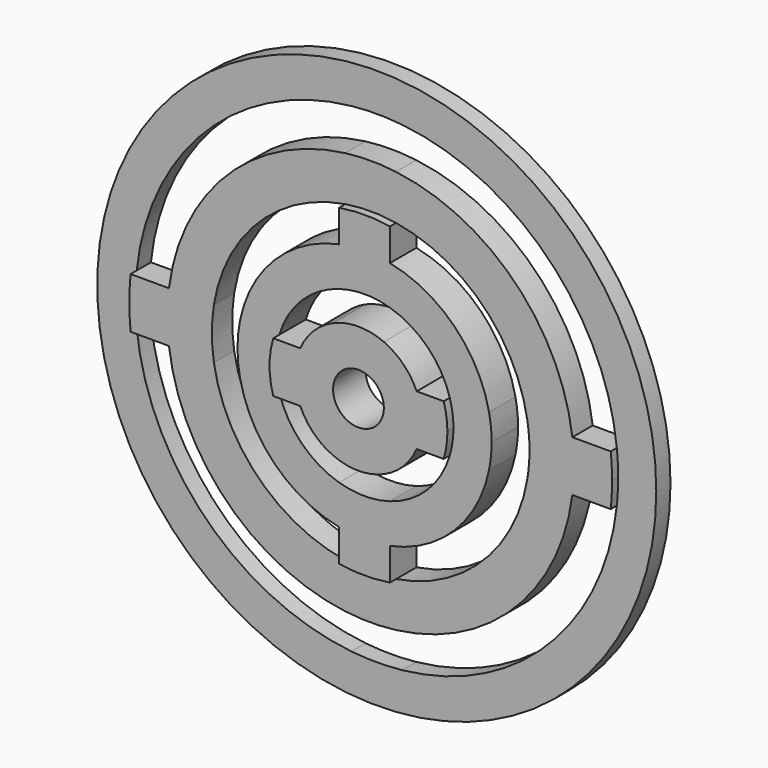
from build123d import *

# Parameters (mm, degrees)
F0_R     = 2.54
F1_DEPTH = 4.064
F2_DEPTH = 3.302
F3_DEPTH = 2.54
F0_R_2   = 27.94
F4_DEPTH = 1.778


with BuildPart() as f1:
    # F0 (on Front) → F1 (new body)
    with BuildSketch(Plane.XZ):
        with BuildLine():
            ThreePointArc((5.819871, -2.54), (6.216055, -1.297366), (6.35, 0))
            ThreePointArc((6.35, 0), (6.216055, 1.297366), (5.819871, 2.54))
            ThreePointArc((5.819871, 2.54), (4.490128, 4.490128), (2.54, 5.819871))
            ThreePointArc((2.54, 5.819871), (0, 6.35), (-2.54, 5.819871))
            ThreePointArc((-2.54, 5.819871), (-4.490128, 4.490128), (-5.819871, 2.54))
            ThreePointArc((-5.819871, 2.54), (-6.35, 0), (-5.819871, -2.54))
            ThreePointArc((-5.819871, -2.54), (-4.490128, -4.490128), (-2.54, -5.819871))
            ThreePointArc((-2.54, -5.819871), (0, -6.35), (2.54, -5.819871))
            ThreePointArc((2.54, -5.819871), (4.490128, -4.490128), (5.819871, -2.54))
        make_face()
        Circle(F0_R, mode=Mode.SUBTRACT)
        with BuildLine():
            ThreePointArc((-5.819871, -2.54), (-6.35, 0), (-5.819871, 2.54))
            Line((-5.819871, 2.54), (-8.519419, 2.54))
            ThreePointArc((-8.519419, 2.54), (-8.89, 0), (-8.519419, -2.54))
            Line((-8.519419, -2.54), (-5.819871, -2.54))
        make_face()
        with BuildLine():
            ThreePointArc((5.819871, 2.54), (6.216055, 1.297366), (6.35, 0))
            ThreePointArc((6.35, 0), (6.216055, -1.297366), (5.819871, -2.54))
            Line((5.819871, -2.54), (8.519419, -2.54))
            ThreePointArc((8.519419, -2.54), (8.796867, -1.283446), (8.89, 0))
            ThreePointArc((8.89, 0), (8.796867, 1.283446), (8.519419, 2.54))
            Line((8.519419, 2.54), (5.819871, 2.54))
        make_face()
    extrude(amount=F1_DEPTH)

    # F0 (on Front) → F2 (join)
    with BuildSketch(Plane.XZ):
        with BuildLine():
            ThreePointArc((12.443408, -2.54), (12.635689, -1.276464), (12.7, 0))
            ThreePointArc((12.7, 0), (12.635689, 1.276464), (12.443408, 2.54))
            ThreePointArc((12.443408, 2.54), (8.980256, 8.980256), (2.54, 12.443408))
            ThreePointArc((2.54, 12.443408), (0, 12.7), (-2.54, 12.443408))
            ThreePointArc((-2.54, 12.443408), (-8.980256, 8.980256), (-12.443408, 2.54))
            ThreePointArc((-12.443408, 2.54), (-12.7, 0), (-12.443408, -2.54))
            ThreePointArc((-12.443408, -2.54), (-8.980256, -8.980256), (-2.54, -12.443408))
            ThreePointArc((-2.54, -12.443408), (0, -12.7), (2.54, -12.443408))
            ThreePointArc((2.54, -12.443408), (8.980256, -8.980256), (12.443408, -2.54))
        make_face()
        with BuildLine():
            ThreePointArc((2.54, 8.519419), (6.286179, 6.286179), (8.519419, 2.54))
            ThreePointArc((8.519419, 2.54), (8.796867, 1.283446), (8.89, 0))
            ThreePointArc((8.89, 0), (8.796867, -1.283446), (8.519419, -2.54))
            ThreePointArc((8.519419, -2.54), (6.286179, -6.286179), (2.54, -8.519419))
            ThreePointArc((2.54, -8.519419), (0, -8.89), (-2.54, -8.519419))
            ThreePointArc((-2.54, -8.519419), (-6.286179, -6.286179), (-8.519419, -2.54))
            ThreePointArc((-8.519419, -2.54), (-8.89, 0), (-8.519419, 2.54))
            ThreePointArc((-8.519419, 2.54), (-6.286179, 6.286179), (-2.54, 8.519419))
            ThreePointArc((-2.54, 8.519419), (0, 8.89), (2.54, 8.519419))
        make_face(mode=Mode.SUBTRACT)
        with BuildLine():
            Line((2.54, -15.670483), (2.54, -12.443408))
            ThreePointArc((2.54, -12.443408), (0, -12.7), (-2.54, -12.443408))
            Line((-2.54, -12.443408), (-2.54, -15.670483))
            ThreePointArc((-2.54, -15.670483), (0, -15.875), (2.54, -15.670483))
        make_face()
        with BuildLine():
            ThreePointArc((-2.54, 12.443408), (0, 12.7), (2.54, 12.443408))
            Line((2.54, 12.443408), (2.54, 15.670483))
            ThreePointArc((2.54, 15.670483), (0, 15.875), (-2.54, 15.670483))
            Line((-2.54, 15.670483), (-2.54, 12.443408))
        make_face()
    extrude(amount=F2_DEPTH)

    # F0 (on Front) → F3 (join)
    with BuildSketch(Plane.XZ):
        with BuildLine():
            ThreePointArc((20.160625, -2.54), (20.280117, -1.272498), (20.32, 0))
            ThreePointArc((20.32, 0), (20.280117, 1.272498), (20.160625, 2.54))
            ThreePointArc((20.160625, 2.54), (14.36841, 14.36841), (2.54, 20.160625))
            ThreePointArc((2.54, 20.160625), (0, 20.32), (-2.54, 20.160625))
            ThreePointArc((-2.54, 20.160625), (-14.36841, 14.36841), (-20.160625, 2.54))
            ThreePointArc((-20.160625, 2.54), (-20.32, 0), (-20.160625, -2.54))
            ThreePointArc((-20.160625, -2.54), (-14.36841, -14.36841), (-2.54, -20.160625))
            ThreePointArc((-2.54, -20.160625), (0, -20.32), (2.54, -20.160625))
            ThreePointArc((2.54, -20.160625), (14.36841, -14.36841), (20.160625, -2.54))
        make_face()
        with BuildLine():
            ThreePointArc((2.54, 15.670483), (11.22532, 11.22532), (15.670483, 2.54))
            ThreePointArc((15.670483, 2.54), (15.823788, 1.27411), (15.875, 0))
            ThreePointArc((15.875, 0), (15.823788, -1.27411), (15.670483, -2.54))
            ThreePointArc((15.670483, -2.54), (11.22532, -11.22532), (2.54, -15.670483))
            ThreePointArc((2.54, -15.670483), (0, -15.875), (-2.54, -15.670483))
            ThreePointArc((-2.54, -15.670483), (-11.22532, -11.22532), (-15.670483, -2.54))
            ThreePointArc((-15.670483, -2.54), (-15.875, 0), (-15.670483, 2.54))
            ThreePointArc((-15.670483, 2.54), (-11.22532, 11.22532), (-2.54, 15.670483))
            ThreePointArc((-2.54, 15.670483), (0, 15.875), (2.54, 15.670483))
        make_face(mode=Mode.SUBTRACT)
        with BuildLine():
            ThreePointArc((20.160625, 2.54), (20.280117, 1.272498), (20.32, 0))
            ThreePointArc((20.32, 0), (20.280117, -1.272498), (20.160625, -2.54))
            Line((20.160625, -2.54), (23.995943, -2.54))
            ThreePointArc((23.995943, -2.54), (24.096463, -1.271768), (24.13, 0))
            ThreePointArc((24.13, 0), (24.096463, 1.271768), (23.995943, 2.54))
            Line((23.995943, 2.54), (20.160625, 2.54))
        make_face()
        with BuildLine():
            ThreePointArc((-20.160625, -2.54), (-20.32, 0), (-20.160625, 2.54))
            Line((-20.160625, 2.54), (-23.995943, 2.54))
            ThreePointArc((-23.995943, 2.54), (-24.13, 0), (-23.995943, -2.54))
            Line((-23.995943, -2.54), (-20.160625, -2.54))
        make_face()
    extrude(amount=F3_DEPTH)

    # F0 (on Front) → F4 (join)
    with BuildSketch(Plane.XZ):
        Circle(F0_R_2)
        with BuildLine():
            ThreePointArc((2.54, 23.995943), (17.062487, 17.062487), (23.995943, 2.54))
            ThreePointArc((23.995943, 2.54), (24.096463, 1.271768), (24.13, 0))
            ThreePointArc((24.13, 0), (24.096463, -1.271768), (23.995943, -2.54))
            ThreePointArc((23.995943, -2.54), (17.062487, -17.062487), (2.54, -23.995943))
            ThreePointArc((2.54, -23.995943), (0, -24.13), (-2.54, -23.995943))
            ThreePointArc((-2.54, -23.995943), (-17.062487, -17.062487), (-23.995943, -2.54))
            ThreePointArc((-23.995943, -2.54), (-24.13, 0), (-23.995943, 2.54))
            ThreePointArc((-23.995943, 2.54), (-17.062487, 17.062487), (-2.54, 23.995943))
            ThreePointArc((-2.54, 23.995943), (0, 24.13), (2.54, 23.995943))
        make_face(mode=Mode.SUBTRACT)
    extrude(amount=F4_DEPTH)


solid = f1.part
